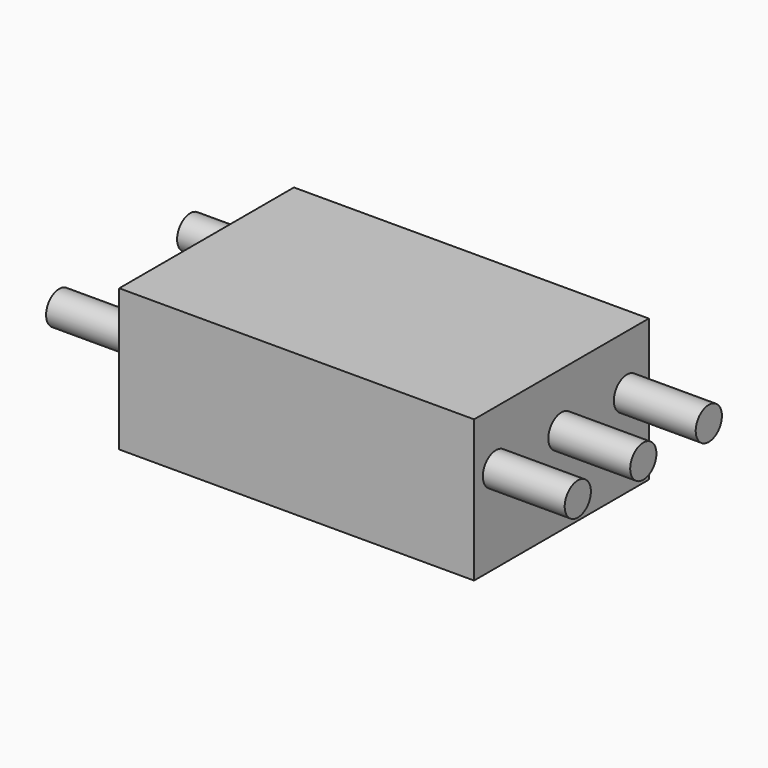
from build123d import *

# Parameters (mm, degrees)
F0_W     = 65
F0_H     = 40
F1_DEPTH = 26
F2_R     = 3
F3_DEPTH = 15
F4_R     = 3
F5_DEPTH = 15


with BuildPart() as f1:
    # F0 (on Top) → F1 (new body)
    with BuildSketch(Plane.XY):
        Rectangle(F0_W, F0_H)
    extrude(amount=F1_DEPTH)

    # F2 (on face) → F3 (join)
    with BuildSketch(Plane.YZ.offset(32.5)):
        with Locations((0, 16)):
            Circle(F2_R)
        with Locations((-15, 16)):
            Circle(F2_R)
        with Locations((15, 16)):
            Circle(F2_R)
    extrude(amount=F3_DEPTH)

    # F4 (on face) → F5 (join)
    with BuildSketch(Plane(origin=(-32.5, 0, 0), x_dir=(0, -1, 0), z_dir=(-1, 0, 0))):
        with Locations((15, 16)):
            Circle(F4_R)
        with Locations((-15, 16)):
            Circle(F4_R)
    extrude(amount=F5_DEPTH)


solid = f1.part
